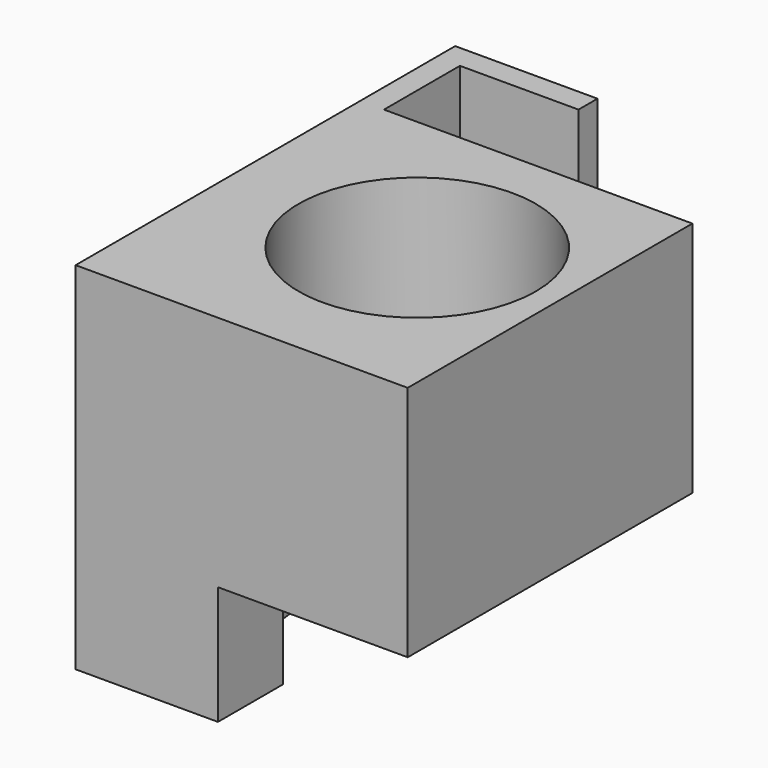
from build123d import *

# Parameters (mm, degrees)
F1_DEPTH = 75
F2_W     = 40
F2_H     = 25
F3_DEPTH = 100.001
F4_W     = 25
F4_H     = 20
F5_DEPTH = 15
F6_R     = 25
F7_DEPTH = 75.001


with BuildPart() as f1:
    # F0 (on Top) → F1 (new body)
    with BuildSketch(Plane.XY):
        Polygon((0, 100), (0, 0), (70, 0), (70, 75), (30, 75), (30, 100), align=None)
    extrude(amount=F1_DEPTH)

    # F2 (on face) → F3 (cut, through all)
    with BuildSketch(Plane.XZ):
        with Locations((50, 12.5)):
            Rectangle(F2_W, F2_H)
    extrude(amount=-F3_DEPTH, mode=Mode.SUBTRACT)

    # F4 (on face) → F5 (cut)
    with BuildSketch(Plane.XY.offset(75)):
        with Locations((17.5, 85)):
            Rectangle(F4_W, F4_H)
    extrude(amount=-F5_DEPTH, mode=Mode.SUBTRACT)

    # F6 (on face) → F7 (cut, through all)
    with BuildSketch(Plane.XY.offset(75)):
        with Locations((40, 40)):
            Circle(F6_R)
    extrude(amount=-F7_DEPTH, mode=Mode.SUBTRACT)


solid = f1.part
